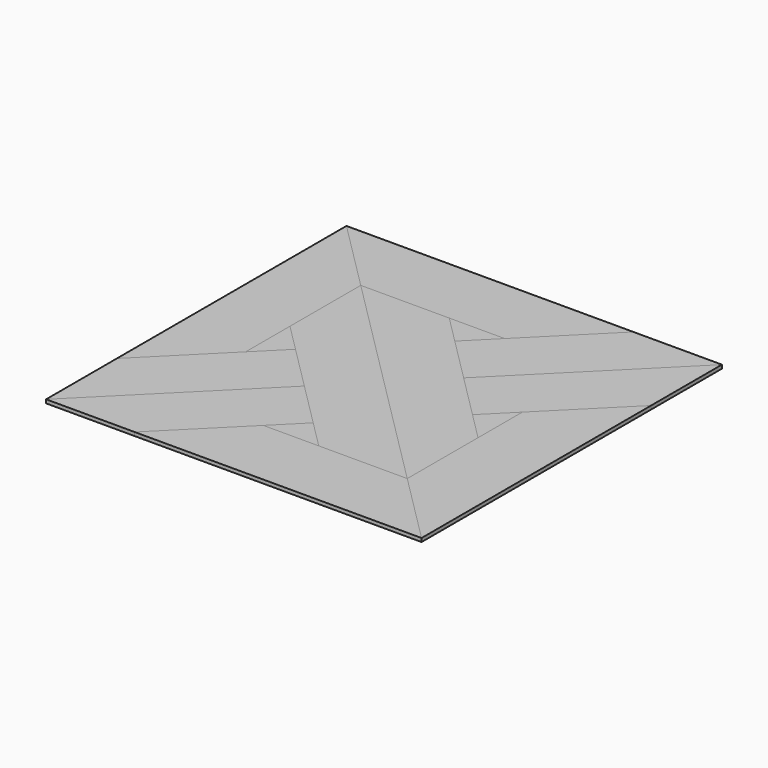
from build123d import *

# Parameters (mm, degrees)
F2_DEPTH = 4
F3_DEPTH = 4
F4_DEPTH = 4
F5_DEPTH = 4


with BuildPart() as f2:
    # F1 (on Top) → F2 (new body)
    with BuildSketch(Plane.XY):
        Polygon((-130.0015817211, 31.0115817211), (-130.0015817211, 130.0015817211), (-209.9940971937, 209.9940971937), (-209.9940971937, -110.9909337514), (-130.0015817211, -30.9984182789), align=None)
    extrude(amount=F2_DEPTH)


with BuildPart() as f2b:
    # F1 (on Top) → F2, piece 2 (new body)
    with BuildSketch(Plane.XY):
        Polygon((130.0015817211, -31.0115817211), (130.0015817211, -130.0015817211), (209.9940971937, -209.9940971937), (209.9940971937, 110.9909337514), (130.0015817211, 30.9984182789), align=None)
    extrude(amount=F2_DEPTH)


with BuildPart() as f2c:
    # F1 (on Top) → F2, piece 3 (new body)
    with BuildSketch(Plane.XY):
        Polygon((-209.9940971937, -209.9940971937), (-110.9909337514, -209.9940971937), (-30.9984182789, -130.0015817211), (0.0065817211, -98.9965817211), (-49.495, -49.495), align=None)
    extrude(amount=F2_DEPTH)


with BuildPart() as f2d:
    # F1 (on Top) → F2, piece 4 (new body)
    with BuildSketch(Plane.XY):
        Polygon((110.9909337514, 209.9940971937), (30.9984182789, 130.0015817211), (-0.0065817211, 98.9965817211), (49.495, 49.495), (209.9940971937, 209.9940971937), align=None)
    extrude(amount=F2_DEPTH)


with BuildPart() as f3:
    # F1 (on Top) → F3 (new body)
    with BuildSketch(Plane.XY):
        Polygon((-209.9940971937, 209.9940971937), (-130.0015817211, 130.0015817211), (-31.0115817211, 130.0015817211), (30.9984182789, 130.0015817211), (110.9909337514, 209.9940971937), align=None)
    extrude(amount=F3_DEPTH)


with BuildPart() as f3b:
    # F1 (on Top) → F3, piece 2 (new body)
    with BuildSketch(Plane.XY):
        Polygon((-98.9965817211, 0.0065817211), (-130.0015817211, -30.9984182789), (-209.9940971937, -110.9909337514), (-209.9940971937, -209.9940971937), (-49.495, -49.495), align=None)
    extrude(amount=F3_DEPTH)


with BuildPart() as f3c:
    # F1 (on Top) → F3, piece 3 (new body)
    with BuildSketch(Plane.XY):
        Polygon((130.0015817211, 30.9984182789), (209.9940971937, 110.9909337514), (209.9940971937, 209.9940971937), (49.495, 49.495), (98.9965817211, -0.0065817211), align=None)
    extrude(amount=F3_DEPTH)


with BuildPart() as f3d:
    # F1 (on Top) → F3, piece 4 (new body)
    with BuildSketch(Plane.XY):
        Polygon((209.9940971937, -209.9940971937), (130.0015817211, -130.0015817211), (31.0115817211, -130.0015817211), (-30.9984182789, -130.0015817211), (-110.9909337514, -209.9940971937), align=None)
    extrude(amount=F3_DEPTH)


with BuildPart() as f4:
    # F1 (on Top) → F4 (new body)
    with BuildSketch(Plane.XY):
        Polygon((130.0015817211, -130.0015817211), (0, 0), (-130.0015817211, 130.0015817211), (-130.0015817211, 31.0115817211), (-98.9965817211, 0.0065817211), (-49.495, -49.495), (0.0065817211, -98.9965817211), (31.0115817211, -130.0015817211), align=None)
    extrude(amount=F4_DEPTH)


with BuildPart() as f4b:
    # F1 (on Top) → F4, piece 2 (new body)
    with BuildSketch(Plane.XY):
        Polygon((30.9984182789, 130.0015817211), (-31.0115817211, 130.0015817211), (-0.0065817211, 98.9965817211), align=None)
    extrude(amount=F4_DEPTH)


with BuildPart() as f4c:
    # F1 (on Top) → F4, piece 3 (new body)
    with BuildSketch(Plane.XY):
        Polygon((98.9965817211, -0.0065817211), (130.0015817211, -31.0115817211), (130.0015817211, 30.9984182789), align=None)
    extrude(amount=F4_DEPTH)


with BuildPart() as f5:
    # F1 (on Top) → F5 (new body)
    with BuildSketch(Plane.XY):
        Polygon((-98.9965817211, 0.0065817211), (-130.0015817211, 31.0115817211), (-130.0015817211, -30.9984182789), align=None)
    extrude(amount=F5_DEPTH)


with BuildPart() as f5b:
    # F1 (on Top) → F5, piece 2 (new body)
    with BuildSketch(Plane.XY):
        Polygon((-130.0015817211, 130.0015817211), (0, 0), (130.0015817211, -130.0015817211), (130.0015817211, -31.0115817211), (98.9965817211, -0.0065817211), (49.495, 49.495), (-0.0065817211, 98.9965817211), (-31.0115817211, 130.0015817211), align=None)
    extrude(amount=F5_DEPTH)


with BuildPart() as f5c:
    # F1 (on Top) → F5, piece 3 (new body)
    with BuildSketch(Plane.XY):
        Polygon((-30.9984182789, -130.0015817211), (31.0115817211, -130.0015817211), (0.0065817211, -98.9965817211), align=None)
    extrude(amount=F5_DEPTH)


solid = Compound([f2.part, f2b.part, f2c.part, f2d.part, f3.part, f3b.part, f3c.part, f3d.part, f4.part, f4b.part, f4c.part, f5.part, f5b.part, f5c.part])
